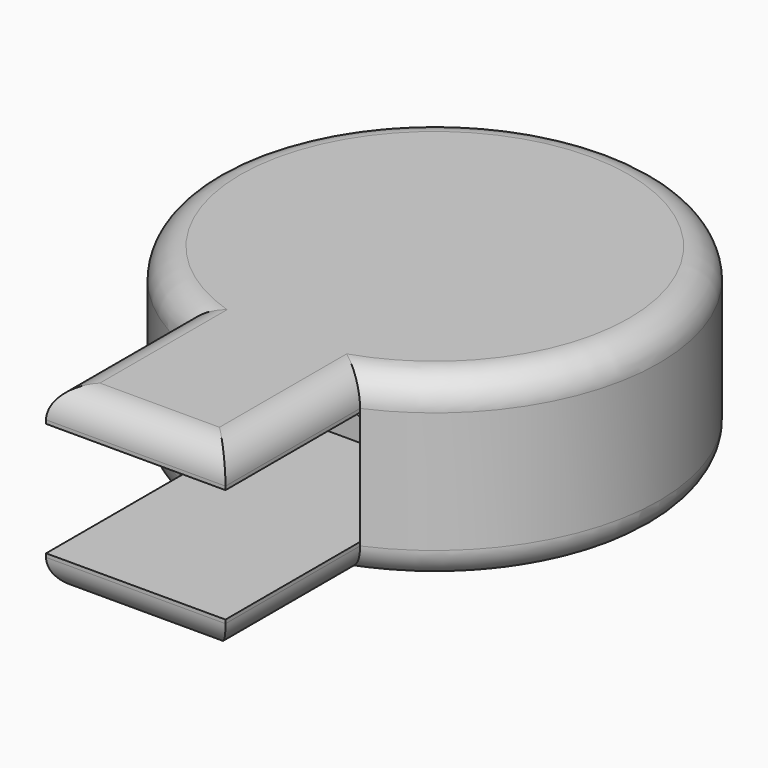
from build123d import *

# Parameters (mm, degrees)
F1_DEPTH = 12.1
F2_R     = 2
F3_W     = 12
F3_H     = 7.62
F4_DEPTH = 20
F5_R     = 2.5
F6_DEPTH = 33.782


with BuildPart() as f1:
    # F0 (on Top) → F1 (new body)
    with BuildSketch(Plane.XY):
        with BuildLine():
            Line((6, -25), (6, -13.747727))
            ThreePointArc((6, -13.747727), (0, 15), (-6, -13.747727))
            Line((-6, -13.747727), (-6, -25))
            Line((-6, -25), (0, -25))
            Line((0, -25), (6, -25))
        make_face()
    extrude(amount=F1_DEPTH)

    # F2
    f2_edges = [f1.edges().sort_by_distance(p)[0] for p in [
        (0, 15, 12.1),
        (6, -19.373864, 12.1),
        (-6, -19.373864, 12.1),
        (0, -25, 12.1),
        (0, 15, 0),
        (6, -19.373864, 0),
        (-6, -19.373864, 0),
        (0, -25, 0),
    ]]
    fillet(f2_edges, radius=F2_R)

    # F3 (on face) → F4 (cut)
    with BuildSketch(Plane.XZ.offset(25)):
        with Locations((0, 6.05)):
            Rectangle(F3_W, F3_H)
    extrude(amount=-F4_DEPTH, mode=Mode.SUBTRACT)

    # F5 (on face) → F6 (cut)
    with BuildSketch(Plane.XZ.offset(5)):
        with Locations((0, 6.05)):
            Circle(F5_R)
    extrude(amount=-F6_DEPTH, mode=Mode.SUBTRACT)


solid = f1.part
